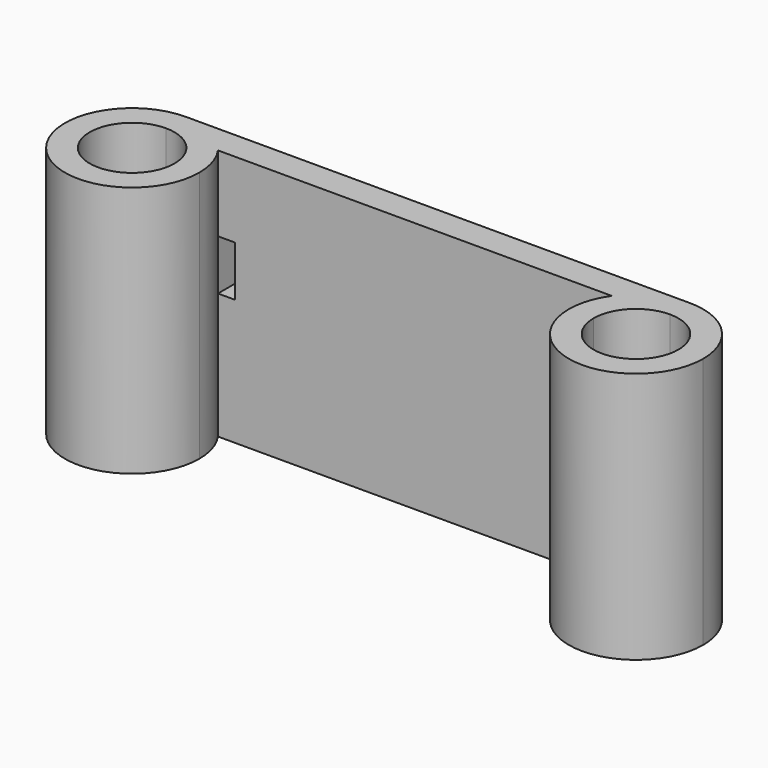
from build123d import *

# Parameters (mm, degrees)
F1_DEPTH = 15
F2_W     = 1
F2_H     = 3
F3_DEPTH = 25


with BuildPart() as f1:
    # F0 (on Top) → F1 (new body)
    with BuildSketch(Plane.XY):
        with BuildLine():
            ThreePointArc((-18.455241, 2.525), (-16.669796, 1.785445), (-15.930241, 0))
            Line((-15.930241, 0), (-14.455241, 0))
            ThreePointArc((-14.455241, 0), (-14.639965, 1.201527), (-15.177075, 2.292079))
            ThreePointArc((-15.177075, 2.292079), (-16.607041, 3.547416), (-18.455241, 4))
            Line((-18.455241, 4), (-18.455241, 2.525))
        make_face()
        with BuildLine():
            Line((11.544759, 2.525), (11.544759, 4))
            ThreePointArc((11.544759, 4), (9.69656, 3.547416), (8.266593, 2.292079))
            ThreePointArc((8.266593, 2.292079), (7.729483, 1.201527), (7.544759, 0))
            Line((7.544759, 0), (9.019759, 0))
            ThreePointArc((9.019759, 0), (9.759315, 1.785445), (11.544759, 2.525))
        make_face()
        with BuildLine():
            Line((-14.455241, 0), (-15.930241, 0))
            ThreePointArc((-15.930241, 0), (-20.240685, -1.785445), (-18.455241, 2.525))
            Line((-18.455241, 2.525), (-18.455241, 4))
            ThreePointArc((-18.455241, 4), (-21.283668, -2.828427), (-14.455241, 0))
        make_face()
        with BuildLine():
            ThreePointArc((15.544759, 0), (14.373186, 2.828427), (11.544759, 4))
            Line((11.544759, 4), (11.544759, 2.525))
            ThreePointArc((11.544759, 2.525), (13.330204, 1.785445), (14.069759, 0))
            ThreePointArc((14.069759, 0), (11.544759, -2.525), (9.019759, 0))
            Line((9.019759, 0), (7.544759, 0))
            ThreePointArc((7.544759, 0), (11.544759, -4), (15.544759, 0))
        make_face()
        with BuildLine():
            Line((11.544759, 4), (-18.455241, 4))
            ThreePointArc((-18.455241, 4), (-16.607041, 3.547416), (-15.177075, 2.292079))
            Line((-15.177075, 2.292079), (-12.304623, 2.292079))
            Line((-12.304623, 2.292079), (6.274519, 2.292079))
            Line((6.274519, 2.292079), (8.266593, 2.292079))
            ThreePointArc((8.266593, 2.292079), (9.69656, 3.547416), (11.544759, 4))
        make_face()
    extrude(amount=F1_DEPTH)

    # F2 (on face) → F3 (cut)
    with BuildSketch(Plane.XZ.offset(-2.292079)):
        with Locations((-14.677075, 9)):
            Rectangle(F2_W, F2_H)
        with Locations((7.766593, 9)):
            Rectangle(F2_W, F2_H)
    extrude(amount=-F3_DEPTH, mode=Mode.SUBTRACT)


solid = f1.part
